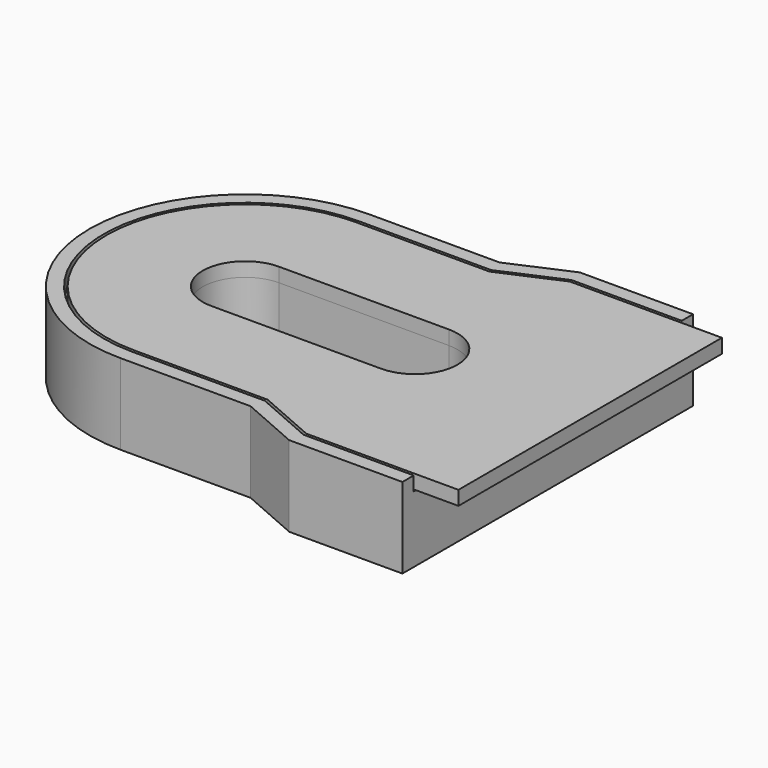
from build123d import *

# Parameters (mm, degrees)
F1_DEPTH = 5.7
F3_DEPTH = 1
F4_W     = 3
F4_H     = 23.2766547906
F5_DEPTH = 1


with BuildPart() as f1:
    # F0 (on Top) → F1 (new body)
    with BuildSketch(Plane.XY):
        with BuildLine():
            Line((3.1784902789, 11), (-6, 11))
            ThreePointArc((-6, 11), (-17, 0), (-6, -11))
            Line((-6, -11), (3.1784902789, -11))
            Line((3.1784902789, -11), (7.3816459231, -12.8383273953))
            Line((7.3816459231, -12.8383273953), (15.3816459231, -12.8383273953))
            Line((15.3816459231, -12.8383273953), (15.3816459231, 12.8383273953))
            Line((15.3816459231, 12.8383273953), (7.3816459231, 12.8383273953))
            Line((7.3816459231, 12.8383273953), (3.1784902789, 11))
        make_face()
        with BuildLine():
            ThreePointArc((-6, -3), (-9, 0), (-6, 3))
            Line((-6, 3), (6, 3))
            ThreePointArc((6, 3), (9, 0), (6, -3))
            Line((6, -3), (-6, -3))
        make_face(mode=Mode.SUBTRACT)
    extrude(amount=F1_DEPTH)

    # F2 (on face) → F3 (cut)
    with BuildSketch(Plane.XY.offset(5.7)):
        with BuildLine():
            Line((-6, -10), (3.3876110814, -10))
            Line((3.3876110814, -10), (7.5907667256, -11.8383273953))
            Line((7.5907667256, -11.8383273953), (11.9922485031, -11.8383273953))
            Line((11.9922485031, -11.8383273953), (15.3816459231, -11.8383273953))
            Line((15.3816459231, -11.8383273953), (15.3816459231, 11.8383273953))
            Line((15.3816459231, 11.8383273953), (11.9922485031, 11.8383273953))
            Line((11.9922485031, 11.8383273953), (7.5907667256, 11.8383273953))
            Line((7.5907667256, 11.8383273953), (3.3876110814, 10))
            Line((3.3876110814, 10), (-6, 10))
            ThreePointArc((-6, 10), (-16, 0), (-6, -10))
        make_face()
        with BuildLine():
            Line((6, -3), (-6, -3))
            ThreePointArc((-6, -3), (-9, 0), (-6, 3))
            Line((-6, 3), (6, 3))
            ThreePointArc((6, 3), (9, 0), (6, -3))
        make_face(mode=Mode.SUBTRACT)
    extrude(amount=-F3_DEPTH, mode=Mode.SUBTRACT)


with BuildPart() as f5:
    # F4 (on face) → F5 (new body)
    with BuildSketch(Plane.XY.offset(4.7)):
        with Locations((16.8816459231, 0)):
            Rectangle(F4_W, F4_H)
        with BuildLine():
            Line((7.6325908861, -11.6383273953), (15.3816459231, -11.6383273953))
            Line((15.3816459231, -11.6383273953), (15.3816459231, 11.6383273953))
            Line((15.3816459231, 11.6383273953), (7.6325908861, 11.6383273953))
            Line((7.6325908861, 11.6383273953), (3.4294352419, 9.8))
            Line((3.4294352419, 9.8), (-6, 9.8))
            ThreePointArc((-6, 9.8), (-15.8, 0), (-6, -9.8))
            Line((-6, -9.8), (3.4294352419, -9.8))
            Line((3.4294352419, -9.8), (7.6325908861, -11.6383273953))
        make_face()
        with BuildLine():
            ThreePointArc((6, 3), (9, 0), (6, -3))
            Line((6, -3), (-6, -3))
            ThreePointArc((-6, -3), (-9, 0), (-6, 3))
            Line((-6, 3), (6, 3))
        make_face(mode=Mode.SUBTRACT)
    extrude(amount=F5_DEPTH)


solid = Compound([f1.part, f5.part])
